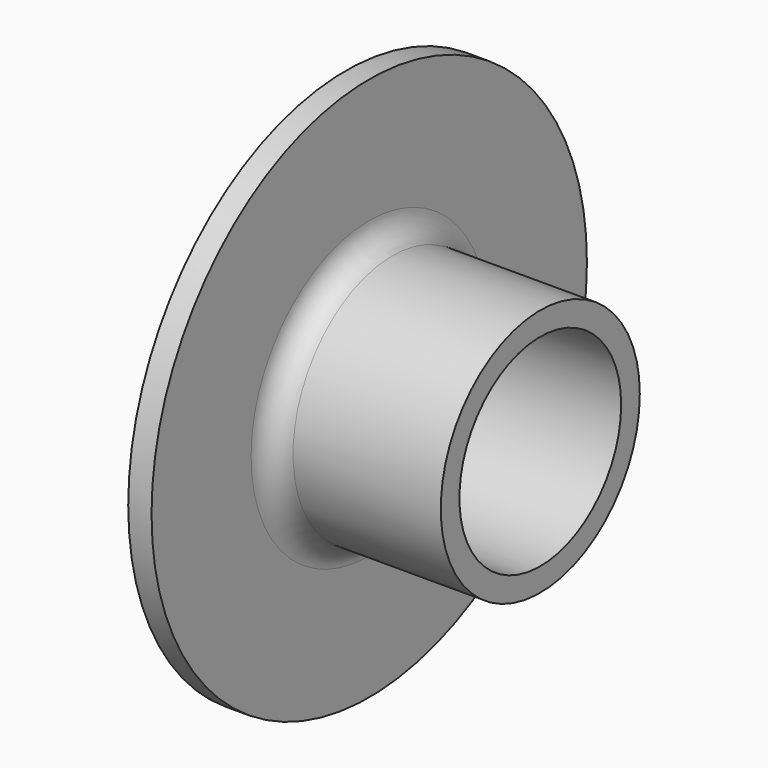
from build123d import *


with BuildPart() as f1:
    # F0 (on Top) → F1 (revolve)
    with BuildSketch(Plane.XY):
        with BuildLine():
            Line((0, 35), (0, 17))
            ThreePointArc((0, 17), (1.171573, 14.171573), (4, 13))
            Line((4, 13), (25, 13))
            Line((25, 13), (25, 16))
            Line((25, 16), (6, 16))
            ThreePointArc((6, 16), (3.87868, 16.87868), (3, 19))
            Line((3, 19), (3, 35))
            Line((3, 35), (0, 35))
        make_face()
    revolve(axis=Axis((13.279573, 0, 0), (1, 0, 0)))


solid = f1.part
